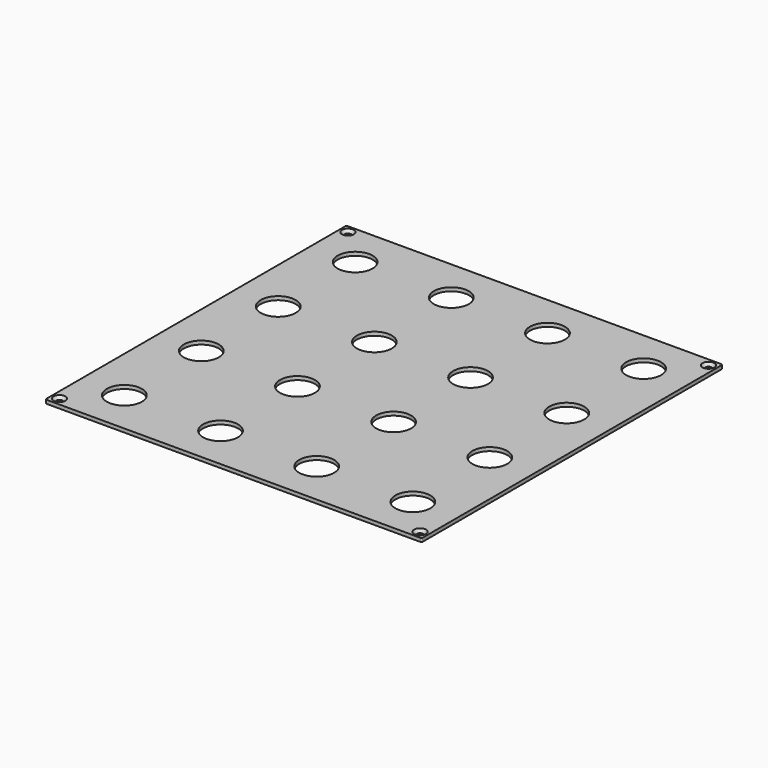
from build123d import *

# Parameters (mm, degrees)
PAD_DEPTH        = 1
POCKET_DEPTH     = 0.001
HOLE_D           = 1.75
HOLE_CSINK_D     = 3.3
HOLE_CSINK_ANGLE = 90
SKETCH005_R      = 4.85
HOLE003_DEPTH    = 1.001


with BuildPart() as part:
    # Sketch → Pad (new body)
    with BuildSketch(Plane.XY):
        with BuildLine():
            Line((-51.8, 52.175), (51.8, 52.175))
            ThreePointArc((52.175, 51.8), (52.065165, 52.065165), (51.8, 52.175))
            Line((52.175, 51.8), (52.175, -51.8))
            ThreePointArc((51.8, -52.175), (52.065165, -52.065165), (52.175, -51.8))
            Line((51.8, -52.175), (-51.8, -52.175))
            ThreePointArc((-52.175, -51.8), (-52.065165, -52.065165), (-51.8, -52.175))
            Line((-52.175, -51.8), (-52.175, 51.8))
            ThreePointArc((-51.8, 52.175), (-52.065165, 52.065165), (-52.175, 51.8))
        make_face()
    extrude(amount=-PAD_DEPTH)

    # Sketch002 → Pocket (cut, through all)
    with BuildSketch(Plane.XY.offset(-4.8)):
        with BuildLine():
            Line((-45, 50.175), (45, 50.175))
            ThreePointArc((45, 50.175), (45.353553, 50.321447), (45.5, 50.675))
            ThreePointArc((45.5, 50.675), (45.353553, 51.028553), (45, 51.175))
            Line((-45, 51.175), (45, 51.175))
            ThreePointArc((-45, 51.175), (-45.353553, 51.028553), (-45.5, 50.675))
            ThreePointArc((-45.5, 50.675), (-45.353553, 50.321447), (-45, 50.175))
        make_face()
        with BuildLine():
            Line((-45, -51.175), (45, -51.175))
            ThreePointArc((45, -51.175), (45.353553, -51.028553), (45.5, -50.675))
            ThreePointArc((45.5, -50.675), (45.353553, -50.321447), (45, -50.175))
            Line((-45, -50.175), (45, -50.175))
            ThreePointArc((-45, -50.175), (-45.353553, -50.321447), (-45.5, -50.675))
            ThreePointArc((-45.5, -50.675), (-45.353553, -51.028553), (-45, -51.175))
        make_face()
        with BuildLine():
            Line((51.175, -45), (51.175, 45))
            ThreePointArc((51.175, 45), (51.028553, 45.353553), (50.675, 45.5))
            ThreePointArc((50.675, 45.5), (50.321447, 45.353553), (50.175, 45))
            Line((50.175, -45), (50.175, 45))
            ThreePointArc((50.175, -45), (50.321447, -45.353553), (50.675, -45.5))
            ThreePointArc((50.675, -45.5), (51.028553, -45.353553), (51.175, -45))
        make_face()
        with BuildLine():
            Line((-50.175, -45), (-50.175, 45))
            ThreePointArc((-50.175, 45), (-50.321447, 45.353553), (-50.675, 45.5))
            ThreePointArc((-50.675, 45.5), (-51.028553, 45.353553), (-51.175, 45))
            Line((-51.175, -45), (-51.175, 45))
            ThreePointArc((-51.175, -45), (-51.028553, -45.353553), (-50.675, -45.5))
            ThreePointArc((-50.675, -45.5), (-50.321447, -45.353553), (-50.175, -45))
        make_face()
    extrude(amount=-POCKET_DEPTH, mode=Mode.SUBTRACT)

    # Hole (through all)
    with Locations(Plane.XY):
        with Locations((-50, 50), (50, 50), (50, -50), (-50, -50)):
            CounterSinkHole(HOLE_D / 2, HOLE_CSINK_D / 2, counter_sink_angle=HOLE_CSINK_ANGLE)

    # Sketch005 → Hole003 (cut, through all)
    with BuildSketch(Plane.XY):
        with Locations((-40.005, 40.005)):
            Circle(SKETCH005_R)
        with Locations((-13.335, 40.005)):
            Circle(SKETCH005_R)
        with Locations((13.335, 40.005)):
            Circle(SKETCH005_R)
        with Locations((40.005, 40.005)):
            Circle(SKETCH005_R)
        with Locations((-40.005, 13.335)):
            Circle(SKETCH005_R)
        with Locations((-13.335, 13.335)):
            Circle(SKETCH005_R)
        with Locations((13.335, 13.335)):
            Circle(SKETCH005_R)
        with Locations((40.005, 13.335)):
            Circle(SKETCH005_R)
        with Locations((-40.005, -13.335)):
            Circle(SKETCH005_R)
        with Locations((-13.335, -13.335)):
            Circle(SKETCH005_R)
        with Locations((13.335, -13.335)):
            Circle(SKETCH005_R)
        with Locations((40.005, -13.335)):
            Circle(SKETCH005_R)
        with Locations((-40.005, -40.005)):
            Circle(SKETCH005_R)
        with Locations((-13.335, -40.005)):
            Circle(SKETCH005_R)
        with Locations((13.335, -40.005)):
            Circle(SKETCH005_R)
        with Locations((40.005, -40.005)):
            Circle(SKETCH005_R)
    extrude(amount=-HOLE003_DEPTH, mode=Mode.SUBTRACT)


solid = part.part
